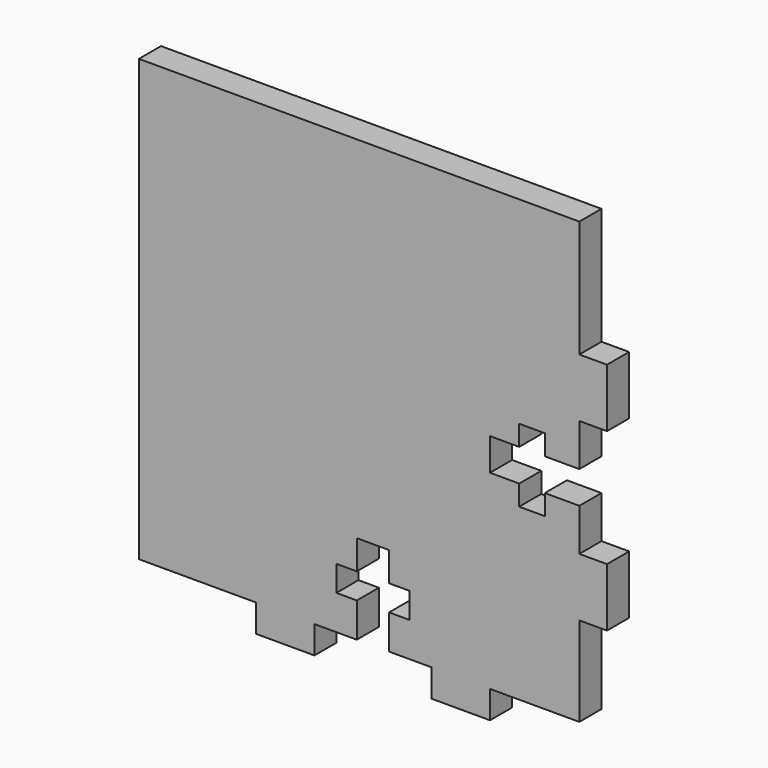
from build123d import *

# Parameters (mm, degrees)
F1_DEPTH = 3


with BuildPart() as f1:
    # F0 (on Front) → F1 (new body)
    with BuildSketch(Plane.XZ):
        Polygon((22.4, 25.4), (-25.4, 25.4), (-25.4, -22.4), (-12.7, -22.4), (-12.7, -25.4), (-6.35, -25.4), (-6.35, -22.4), (-1.7526, -22.4), (-1.7526, -18.650325), (-3.96875, -18.650325), (-3.96875, -15.8722), (-1.7526, -15.8722), (-1.7526, -12.6972), (1.7526, -12.6972), (1.7526, -15.8722), (3.96875, -15.8722), (3.96875, -18.650325), (1.7526, -18.650325), (1.7526, -22.4), (6.35, -22.4), (6.35, -25.4), (12.7, -25.4), (12.7, -22.4), (22.4, -22.4), (22.4, -12.7), (25.4, -12.7), (25.4, -6.35), (22.4, -6.35), (22.4, -1.7526), (18.650325, -1.7526), (18.650325, -3.9624), (15.8722, -3.9624), (15.8722, -1.7526), (12.6972, -1.7526), (12.6972, 1.7526), (15.8722, 1.7526), (15.8722, 3.9624), (18.650325, 3.9624), (18.650325, 1.7526), (22.4, 1.7526), (22.4, 6.35), (25.4, 6.35), (25.4, 12.7), (22.4, 12.7), align=None)
    extrude(amount=F1_DEPTH)


solid = f1.part
